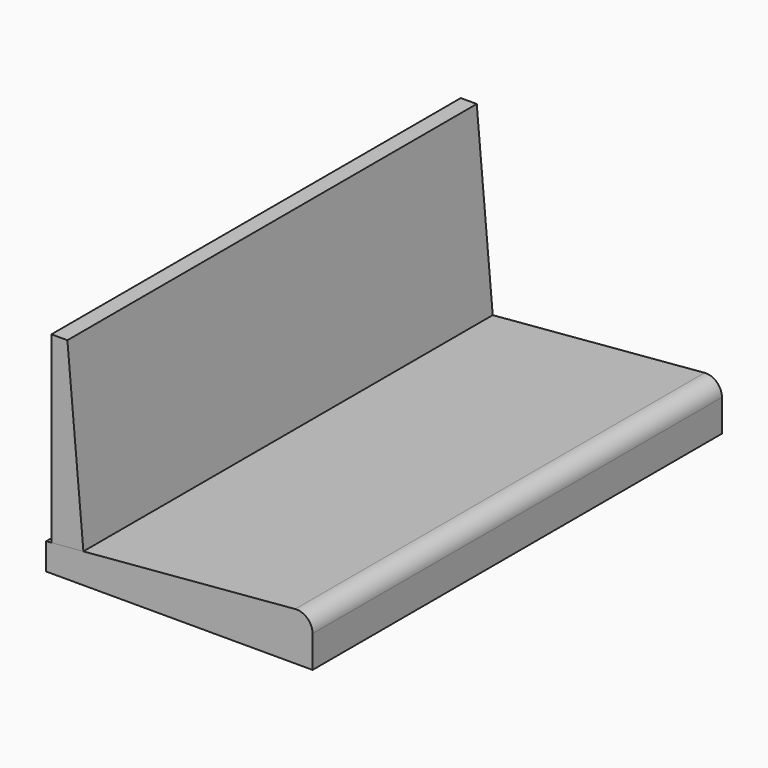
from build123d import *

# Parameters (mm, degrees)
F2_DEPTH = 1219.2
F3_DEPTH = 1219.2


with BuildPart() as f2:
    # F1 (on Front) → F2 (new body)
    with BuildSketch(Plane.XZ):
        with BuildLine():
            Line((0, 12.7), (3.175, 12.7))
            Line((3.175, 12.7), (622.3, 12.7))
            Line((622.3, 12.7), (635, 12.7))
            Line((635, 12.7), (635, 89.038734))
            ThreePointArc((635, 89.038734), (622.666694, 117.104504), (593.651575, 127))
            Line((593.651575, 127), (88.9, 83.807358))
            Line((88.9, 83.807358), (12.7, 77.286765))
            Line((12.7, 77.286765), (0, 76.2))
            Line((0, 76.2), (0, 12.7))
        make_face()
    extrude(amount=F2_DEPTH)


with BuildPart() as f3:
    # F1 (on Front) → F3 (new body)
    with BuildSketch(Plane.XZ):
        Polygon((12.7, 79.375), (12.7, 77.286765), (88.9, 83.807358), (50.8, 514.35), (12.7, 514.35), (12.7, 511.175), align=None)
    extrude(amount=F3_DEPTH)


solid = Compound([f2.part, f3.part])
